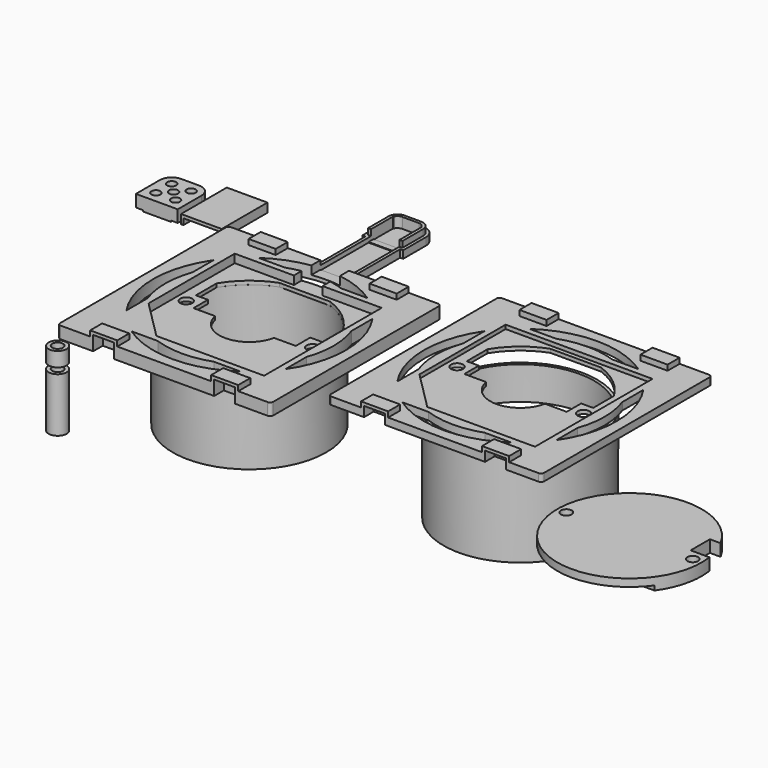
from build123d import *

# Parameters (mm, degrees)
BOX016_W          = 50
BOX016_H          = 15
BOX016_DEPTH      = 10
CYLINDER013_R     = 1.8
CYLINDER013_DEPTH = 50
CYLINDER012_R     = 1.8
CYLINDER012_DEPTH = 50
CYLINDER011_R     = 24.5
CYLINDER011_DEPTH = 50
CYLINDER010_R     = 25.5
CYLINDER010_DEPTH = 28
CYLINDER014_R     = 1.8
CYLINDER014_DEPTH = 30
CYLINDER015_R     = 3
CYLINDER015_DEPTH = 18
CYLINDER016_R     = 1.8
CYLINDER016_DEPTH = 20
CYLINDER017_R     = 3
CYLINDER017_DEPTH = 4.8
BOX022_W          = 9.5
BOX022_H          = 66
BOX022_DEPTH      = 10
BOX018_W          = 9.5
BOX018_H          = 30
BOX018_DEPTH      = 10
BOX017_W          = 11.5
BOX017_H          = 22
BOX017_DEPTH      = 2.5
BOX038_W          = 9.5
BOX038_H          = 9.5
BOX038_DEPTH      = 30
FILLET009_R       = 2
BOX039_W          = 11.5
BOX039_H          = 11.5
BOX039_DEPTH      = 4.5
FILLET008_R       = 3
BOX040_W          = 13.5
BOX040_H          = 13.5
BOX040_DEPTH      = 2.5
FILLET007_R       = 4
BOX034_W          = 52.8
BOX034_H          = 52.8
BOX034_DEPTH      = 30
CYLINDER030_R     = 28
CYLINDER030_DEPTH = 30
CYLINDER029_R     = 32
CYLINDER029_DEPTH = 10
CYLINDER018_R     = 24.5
CYLINDER018_DEPTH = 50
BOX014_W          = 42
BOX014_H          = 19
BOX014_DEPTH      = 10
BOX015_W          = 34
BOX015_H          = 10
BOX015_DEPTH      = 10
BOX008_W          = 7
BOX008_H          = 4
BOX008_DEPTH      = 10
BOX010_W          = 7
BOX010_H          = 4
BOX010_DEPTH      = 10
BOX009_W          = 7
BOX009_H          = 4
BOX009_DEPTH      = 10
BOX007_W          = 7
BOX007_H          = 4
BOX007_DEPTH      = 10
BOX004_W          = 9
BOX004_H          = 5
BOX004_DEPTH      = 1.8
BOX005_W          = 9
BOX005_H          = 5
BOX005_DEPTH      = 1.8
BOX006_W          = 9
BOX006_H          = 5
BOX006_DEPTH      = 1.8
BOX001_W          = 9
BOX001_H          = 5
BOX001_DEPTH      = 1.8
CYLINDER009_R     = 2
CYLINDER009_DEPTH = 10
CYLINDER007_R     = 2
CYLINDER007_DEPTH = 10
CYLINDER004_R     = 2
CYLINDER004_DEPTH = 10
CYLINDER002_R     = 2
CYLINDER002_DEPTH = 10
CYLINDER003_R     = 2
CYLINDER003_DEPTH = 10
CYLINDER001_R     = 2
CYLINDER001_DEPTH = 10
CYLINDER_R        = 10
CYLINDER_DEPTH    = 40
BOX013_W          = 48.8
BOX013_H          = 48.8
BOX013_DEPTH      = 10
CHAMFER_SIZE      = 13
BOX_W             = 70.8
BOX_H             = 70.8
BOX_DEPTH         = 4
FILLET_R          = 1
BOX043_W          = 9.3
BOX043_H          = 1
BOX043_DEPTH      = 2
CYLINDER033_R     = 1.5
CYLINDER033_DEPTH = 10
CYLINDER031_R     = 1.5
CYLINDER031_DEPTH = 10
CYLINDER035_R     = 1.5
CYLINDER035_DEPTH = 10
CYLINDER034_R     = 1.5
CYLINDER034_DEPTH = 10
CYLINDER032_R     = 1.5
CYLINDER032_DEPTH = 10
BOX042_W          = 11.9
BOX042_H          = 11.9
BOX042_DEPTH      = 2
FILLET011_R       = 3
BOX041_W          = 13.9
BOX041_H          = 13.9
BOX041_DEPTH      = 4
FILLET010_R       = 4
BOX045_W          = 11.9
BOX045_H          = 20
BOX045_DEPTH      = 2
BOX044_W          = 13.5
BOX044_H          = 19
BOX044_DEPTH      = 3
BOX047_W          = 52.8
BOX047_H          = 52.8
BOX047_DEPTH      = 30
CYLINDER037_R     = 28
CYLINDER037_DEPTH = 30
CYLINDER036_R     = 32
CYLINDER036_DEPTH = 10
CYLINDER038_R     = 24.5
CYLINDER038_DEPTH = 50
BOX031_W          = 42
BOX031_H          = 19
BOX031_DEPTH      = 10
BOX032_W          = 34
BOX032_H          = 10
BOX032_DEPTH      = 10
BOX027_W          = 7
BOX027_H          = 4
BOX027_DEPTH      = 10
BOX023_W          = 7
BOX023_H          = 4
BOX023_DEPTH      = 10
BOX028_W          = 7
BOX028_H          = 4
BOX028_DEPTH      = 10
BOX026_W          = 7
BOX026_H          = 4
BOX026_DEPTH      = 10
BOX025_W          = 9
BOX025_H          = 5
BOX025_DEPTH      = 1.8
BOX024_W          = 9
BOX024_H          = 5
BOX024_DEPTH      = 1.8
BOX046_W          = 9
BOX046_H          = 5
BOX046_DEPTH      = 1.8
BOX021_W          = 9
BOX021_H          = 5
BOX021_DEPTH      = 1.8
CYLINDER024_R     = 2
CYLINDER024_DEPTH = 10
CYLINDER027_R     = 2
CYLINDER027_DEPTH = 10
CYLINDER028_R     = 2
CYLINDER028_DEPTH = 10
CYLINDER023_R     = 2
CYLINDER023_DEPTH = 10
CYLINDER026_R     = 2
CYLINDER026_DEPTH = 10
CYLINDER025_R     = 2
CYLINDER025_DEPTH = 10
CYLINDER022_R     = 10
CYLINDER022_DEPTH = 40
BOX030_W          = 48.8
BOX030_H          = 48.8
BOX030_DEPTH      = 10
CHAMFER001_SIZE   = 13
BOX029_W          = 70.8
BOX029_H          = 70.8
BOX029_DEPTH      = 2.5
FILLET001_R       = 1
BOX048_W          = 50
BOX048_H          = 15
BOX048_DEPTH      = 30
CYLINDER039_R     = 1.8
CYLINDER039_DEPTH = 50
CYLINDER041_R     = 1.8
CYLINDER041_DEPTH = 50
CYLINDER040_R     = 24.5
CYLINDER040_DEPTH = 50
CYLINDER042_R     = 25.5
CYLINDER042_DEPTH = 32
BOX020_W          = 7.5
BOX020_H          = 10
BOX020_DEPTH      = 7
BOX019_W          = 42
BOX019_H          = 1
BOX019_DEPTH      = 18.5
BOX050_W          = 24
BOX050_H          = 8
BOX050_DEPTH      = 10
CYLINDER021_R     = 1.8
CYLINDER021_DEPTH = 20
BOX049_W          = 60
BOX049_H          = 10
BOX049_DEPTH      = 1.5
CYLINDER020_R     = 1.8
CYLINDER020_DEPTH = 20
CYLINDER019_R     = 24
CYLINDER019_DEPTH = 4


with BuildPart() as box016:
    # Box016 → Box016 (new body)
    with BuildSketch(Plane(origin=(-25, 14.5, -7), x_dir=(1, 0, 0), z_dir=(0, 0, 1))):
        with Locations((25, 7.5)):
            Rectangle(BOX016_W, BOX016_H)
    extrude(amount=BOX016_DEPTH)


with BuildPart() as cylinder013:
    # Cylinder013 → Cylinder013 (new body)
    with BuildSketch(Plane(origin=(21, 0, -5), x_dir=(1, 0, 0), z_dir=(0, 0, 1))):
        Circle(CYLINDER013_R)
    extrude(amount=CYLINDER013_DEPTH)


with BuildPart() as fusion008:
    # Cylinder012 → Cylinder012 (new body)
    with BuildSketch(Plane(origin=(-21, 0, -5), x_dir=(1, 0, 0), z_dir=(0, 0, 1))):
        Circle(CYLINDER012_R)
    extrude(amount=CYLINDER012_DEPTH)

    # Fusion008: union Cylinder013
    add(cylinder013.part)


with BuildPart() as bodyhole:
    # Cylinder011 → Cylinder011 (new body)
    with BuildSketch(Plane.XY.offset(1.5)):
        Circle(CYLINDER011_R)
    extrude(amount=CYLINDER011_DEPTH)


with BuildPart() as body:
    # Cylinder010 → Cylinder010 (new body)
    with BuildSketch(Plane.XY):
        Circle(CYLINDER010_R)
    extrude(amount=CYLINDER010_DEPTH)

    # Cut028: cut BodyHole
    add(bodyhole.part, mode=Mode.SUBTRACT)

    # Cut029: cut Fusion008
    add(fusion008.part, mode=Mode.SUBTRACT)

    # Cut030: cut Box016
    add(box016.part, mode=Mode.SUBTRACT)


with BuildPart() as body_1:
    # Cut030 placement: moved
    add(body.part.moved(Location((35.4, 35.4, -28))))


with BuildPart() as cylinder014:
    # Cylinder014 → Cylinder014 (new body)
    with BuildSketch(Plane.XY.offset(-3)):
        Circle(CYLINDER014_R)
    extrude(amount=CYLINDER014_DEPTH)


with BuildPart() as pwrstand:
    # Cylinder015 → Cylinder015 (new body)
    with BuildSketch(Plane.XY):
        Circle(CYLINDER015_R)
    extrude(amount=CYLINDER015_DEPTH)

    # Cut031: cut Cylinder014
    add(cylinder014.part, mode=Mode.SUBTRACT)


with BuildPart() as pwrstand_1:
    # Cut031 placement: moved
    add(pwrstand.part.moved(Location((0, 0, -27))))


with BuildPart() as cylinder016:
    # Cylinder016 → Cylinder016 (new body)
    with BuildSketch(Plane.XY.offset(-3)):
        Circle(CYLINDER016_R)
    extrude(amount=CYLINDER016_DEPTH)


with BuildPart() as obj1:
    # Cylinder017 → Cylinder017 (new body)
    with BuildSketch(Plane.XY):
        Circle(CYLINDER017_R)
    extrude(amount=CYLINDER017_DEPTH)

    # Cut032: cut Cylinder016
    add(cylinder016.part, mode=Mode.SUBTRACT)


with BuildPart() as obj1_1:
    # Cut032 placement: moved
    add(obj1.part.moved(Location((0, 0, -7))))


with BuildPart() as box022:
    # Box022 → Box022 (new body)
    with BuildSketch(Plane(origin=(30.65, 35, 1.2), x_dir=(1, 0, 0), z_dir=(0, 0, 1))):
        with Locations((4.75, 33)):
            Rectangle(BOX022_W, BOX022_H)
    extrude(amount=BOX022_DEPTH)


with BuildPart() as box018:
    # Box018 → Box018 (new body)
    with BuildSketch(Plane(origin=(1, 0, 1), x_dir=(1, 0, 0), z_dir=(0, 0, 1))):
        with Locations((4.75, 15)):
            Rectangle(BOX018_W, BOX018_H)
    extrude(amount=BOX018_DEPTH)


with BuildPart() as cut037:
    # Box017 → Box017 (new body)
    with BuildSketch(Plane.XY):
        with Locations((5.75, 11)):
            Rectangle(BOX017_W, BOX017_H)
    extrude(amount=BOX017_DEPTH)

    # Cut037: cut Box018
    add(box018.part, mode=Mode.SUBTRACT)


with BuildPart() as cut037_1:
    # Cut037 placement: moved
    add(cut037.part.moved(Location((29.65, 70.8, 0))))


with BuildPart() as fillet009:
    # Box038 → Box038 (new body)
    with BuildSketch(Plane(origin=(2, 2, 1), x_dir=(1, 0, 0), z_dir=(0, 0, 1))):
        with Locations((4.75, 4.75)):
            Rectangle(BOX038_W, BOX038_H)
    extrude(amount=BOX038_DEPTH)

    # Fillet009
    fillet009_edges = [fillet009.edges().sort_by_distance(p)[0] for p in [
        (2, 11.5, 16),
        (11.5, 11.5, 16),
    ]]
    fillet(fillet009_edges, radius=FILLET009_R)


with BuildPart() as fillet008:
    # Box039 → Box039 (new body)
    with BuildSketch(Plane(origin=(1, 1, 0), x_dir=(1, 0, 0), z_dir=(0, 0, 1))):
        with Locations((5.75, 5.75)):
            Rectangle(BOX039_W, BOX039_H)
    extrude(amount=BOX039_DEPTH)

    # Fillet008
    fillet008_edges = [fillet008.edges().sort_by_distance(p)[0] for p in [
        (1, 12.5, 2.25),
        (12.5, 12.5, 2.25),
    ]]
    fillet(fillet008_edges, radius=FILLET008_R)


with BuildPart() as obj2:
    # Box040 → Box040 (new body)
    with BuildSketch(Plane.XY):
        with Locations((6.75, 6.75)):
            Rectangle(BOX040_W, BOX040_H)
    extrude(amount=BOX040_DEPTH)

    # Fillet007
    fillet007_edges = [obj2.edges().sort_by_distance(p)[0] for p in [
        (0, 13.5, 1.25),
        (13.5, 13.5, 1.25),
    ]]
    fillet(fillet007_edges, radius=FILLET007_R)

    # Fusion019: union Fillet008
    add(fillet008.part)

    # Cut049: cut Fillet009
    add(fillet009.part, mode=Mode.SUBTRACT)


with BuildPart() as obj2_1:
    # Cut049 placement: moved
    add(obj2.part.moved(Location((28.65, 90.8, 0))))


with BuildPart() as box034:
    # Box034 → Box034 (new body)
    with BuildSketch(Plane(origin=(9, 9, -5), x_dir=(1, 0, 0), z_dir=(0, 0, 1))):
        with Locations((26.4, 26.4)):
            Rectangle(BOX034_W, BOX034_H)
    extrude(amount=BOX034_DEPTH)


with BuildPart() as cylinder030:
    # Cylinder030 → Cylinder030 (new body)
    with BuildSketch(Plane(origin=(35.4, 35.4, -5), x_dir=(1, 0, 0), z_dir=(0, 0, 1))):
        Circle(CYLINDER030_R)
    extrude(amount=CYLINDER030_DEPTH)


with BuildPart() as cut046:
    # Cylinder029 → Cylinder029 (new body)
    with BuildSketch(Plane(origin=(35.4, 35.4, 0), x_dir=(1, 0, 0), z_dir=(0, 0, 1))):
        Circle(CYLINDER029_R)
    extrude(amount=CYLINDER029_DEPTH)

    # Cut045: cut Cylinder030
    add(cylinder030.part, mode=Mode.SUBTRACT)

    # Cut046: cut Box034
    add(box034.part, mode=Mode.SUBTRACT)


with BuildPart() as bodyhole001:
    # Cylinder018 → Cylinder018 (new body)
    with BuildSketch(Plane(origin=(35.4, 35.4, -10.5), x_dir=(1, 0, 0), z_dir=(0, 0, 1))):
        Circle(CYLINDER018_R)
    extrude(amount=CYLINDER018_DEPTH)


with BuildPart() as connector_hole:
    # Box014 → Box014 (new body)
    with BuildSketch(Plane(origin=(14.4, 39.4, -3), x_dir=(1, 0, 0), z_dir=(0, 0, 1))):
        with Locations((21, 9.5)):
            Rectangle(BOX014_W, BOX014_H)
    extrude(amount=BOX014_DEPTH)


with BuildPart() as common:
    # Box015 → Box015 (new body)
    with BuildSketch(Plane(origin=(18.4, 33.4, -2), x_dir=(1, 0, 0), z_dir=(0, 0, 1))):
        with Locations((17, 5)):
            Rectangle(BOX015_W, BOX015_H)
    extrude(amount=BOX015_DEPTH)

    # Fusion010: union Connector hole
    add(connector_hole.part)

    # Common: intersect BodyHole001
    add(bodyhole001.part, mode=Mode.INTERSECT)


with BuildPart() as latch_hole_bottom_right:
    # Box008 → Box008 (new body)
    with BuildSketch(Plane(origin=(52, 0, -5.2), x_dir=(1, 0, 0), z_dir=(0, 0, 1))):
        with Locations((3.5, 2)):
            Rectangle(BOX008_W, BOX008_H)
    extrude(amount=BOX008_DEPTH)


with BuildPart() as latch_hole_top_right:
    # Box010 → Box010 (new body)
    with BuildSketch(Plane(origin=(52, 66.8, -5.2), x_dir=(1, 0, 0), z_dir=(0, 0, 1))):
        with Locations((3.5, 2)):
            Rectangle(BOX010_W, BOX010_H)
    extrude(amount=BOX010_DEPTH)


with BuildPart() as latch_hole_top_left:
    # Box009 → Box009 (new body)
    with BuildSketch(Plane(origin=(11.8, 66.8, -5.2), x_dir=(1, 0, 0), z_dir=(0, 0, 1))):
        with Locations((3.5, 2)):
            Rectangle(BOX009_W, BOX009_H)
    extrude(amount=BOX009_DEPTH)


with BuildPart() as fusion005:
    # Box007 → Box007 (new body)
    with BuildSketch(Plane(origin=(11.8, 0, -5.2), x_dir=(1, 0, 0), z_dir=(0, 0, 1))):
        with Locations((3.5, 2)):
            Rectangle(BOX007_W, BOX007_H)
    extrude(amount=BOX007_DEPTH)

    # Fusion004: union latch hole bottom right, latch hole top right, latch hole top left
    add(latch_hole_bottom_right.part)
    add(latch_hole_top_right.part)
    add(latch_hole_top_left.part)


with BuildPart() as latch_bottom_right:
    # Box004 → Box004 (new body)
    with BuildSketch(Plane(origin=(51, 0, 4), x_dir=(1, 0, 0), z_dir=(0, 0, 1))):
        with Locations((4.5, 2.5)):
            Rectangle(BOX004_W, BOX004_H)
    extrude(amount=BOX004_DEPTH)


with BuildPart() as latch_top_left:
    # Box005 → Box005 (new body)
    with BuildSketch(Plane(origin=(10.8, 65.8, 4), x_dir=(1, 0, 0), z_dir=(0, 0, 1))):
        with Locations((4.5, 2.5)):
            Rectangle(BOX005_W, BOX005_H)
    extrude(amount=BOX005_DEPTH)


with BuildPart() as latch_top_right:
    # Box006 → Box006 (new body)
    with BuildSketch(Plane(origin=(51, 65.8, 4), x_dir=(1, 0, 0), z_dir=(0, 0, 1))):
        with Locations((4.5, 2.5)):
            Rectangle(BOX006_W, BOX006_H)
    extrude(amount=BOX006_DEPTH)


with BuildPart() as fusion:
    # Box001 → Box001 (new body)
    with BuildSketch(Plane(origin=(10.8, 0, 4), x_dir=(1, 0, 0), z_dir=(0, 0, 1))):
        with Locations((4.5, 2.5)):
            Rectangle(BOX001_W, BOX001_H)
    extrude(amount=BOX001_DEPTH)

    # Fusion: union latch bottom right, latch top left, latch top right
    add(latch_bottom_right.part)
    add(latch_top_left.part)
    add(latch_top_right.part)


with BuildPart() as board_hole_right:
    # Cylinder009 → Cylinder009 (new body)
    with BuildSketch(Plane(origin=(56.4, 35.4, -2), x_dir=(1, 0, 0), z_dir=(0, 0, 1))):
        Circle(CYLINDER009_R)
    extrude(amount=CYLINDER009_DEPTH)


with BuildPart() as fusion009:
    # Cylinder007 → Cylinder007 (new body)
    with BuildSketch(Plane(origin=(14.4, 35.4, -2), x_dir=(1, 0, 0), z_dir=(0, 0, 1))):
        Circle(CYLINDER007_R)
    extrude(amount=CYLINDER007_DEPTH)

    # Fusion009: union Board hole right
    add(board_hole_right.part)


with BuildPart() as top_screw_hole:
    # Cylinder004 → Cylinder004 (new body)
    with BuildSketch(Plane(origin=(35.4, 65.4, -4), x_dir=(1, 0, 0), z_dir=(0, 0, 1))):
        Circle(CYLINDER004_R)
    extrude(amount=CYLINDER004_DEPTH)


with BuildPart() as bottom_screw_hole:
    # Cylinder002 → Cylinder002 (new body)
    with BuildSketch(Plane(origin=(35.4, 5.4, -4), x_dir=(1, 0, 0), z_dir=(0, 0, 1))):
        Circle(CYLINDER002_R)
    extrude(amount=CYLINDER002_DEPTH)


with BuildPart() as right_screw_hole:
    # Cylinder003 → Cylinder003 (new body)
    with BuildSketch(Plane(origin=(65.4, 35.4, -4), x_dir=(1, 0, 0), z_dir=(0, 0, 1))):
        Circle(CYLINDER003_R)
    extrude(amount=CYLINDER003_DEPTH)


with BuildPart() as fusion006:
    # Cylinder001 → Cylinder001 (new body)
    with BuildSketch(Plane(origin=(5.4, 35.4, -4), x_dir=(1, 0, 0), z_dir=(0, 0, 1))):
        Circle(CYLINDER001_R)
    extrude(amount=CYLINDER001_DEPTH)

    # Fusion006: union top screw hole, Bottom screw hole, right screw hole
    add(top_screw_hole.part)
    add(bottom_screw_hole.part)
    add(right_screw_hole.part)


with BuildPart() as central_hole001:
    # Cylinder → Cylinder (new body)
    with BuildSketch(Plane(origin=(35.4, 35.4, -10), x_dir=(1, 0, 0), z_dir=(0, 0, 1))):
        Circle(CYLINDER_R)
    extrude(amount=CYLINDER_DEPTH)


with BuildPart() as chamfer_body:
    # Box013 → Box013 (new body)
    with BuildSketch(Plane(origin=(11, 11, 0), x_dir=(1, 0, 0), z_dir=(0, 0, 1))):
        with Locations((24.4, 24.4)):
            Rectangle(BOX013_W, BOX013_H)
    extrude(amount=BOX013_DEPTH)

    # Chamfer
    chamfer_edges = [chamfer_body.edges().sort_by_distance(p)[0] for p in [
        (11, 11, 5),
    ]]
    chamfer(chamfer_edges, length=CHAMFER_SIZE)


with BuildPart() as chamfer_body_1:
    # Chamfer placement: moved
    add(chamfer_body.part.moved(Location((0, 0, 1.2))))


with BuildPart() as obj3:
    # Box → Box (new body)
    with BuildSketch(Plane.XY):
        with Locations((35.4, 35.4)):
            Rectangle(BOX_W, BOX_H)
    extrude(amount=BOX_DEPTH)

    # Fillet
    fillet_edges = [obj3.edges().sort_by_distance(p)[0] for p in [
        (0, 0, 2),
        (0, 70.8, 2),
        (70.8, 0, 2),
        (70.8, 70.8, 2),
    ]]
    fillet(fillet_edges, radius=FILLET_R)

    # Cut: cut Chamfer body
    add(chamfer_body_1.part, mode=Mode.SUBTRACT)

    # Cut021: cut Central hole001
    add(central_hole001.part, mode=Mode.SUBTRACT)

    # Cut033: cut Fusion006
    add(fusion006.part, mode=Mode.SUBTRACT)

    # Cut034: cut Fusion009
    add(fusion009.part, mode=Mode.SUBTRACT)

    # Fusion011: union Fusion
    add(fusion.part)

    # Cut035: cut Fusion005
    add(fusion005.part, mode=Mode.SUBTRACT)

    # Cut036: cut Common
    add(common.part, mode=Mode.SUBTRACT)

    # Cut047: cut Cut046
    add(cut046.part, mode=Mode.SUBTRACT)

    # Fusion022: union Cut037, obj2
    add(cut037_1.part)
    add(obj2_1.part)

    # Cut053: cut Box022
    add(box022.part, mode=Mode.SUBTRACT)


with BuildPart() as box043:
    # Box043 → Box043 (new body)
    with BuildSketch(Plane(origin=(2.3, 0, -0.4), x_dir=(1, 0, 0), z_dir=(0, 0, 1))):
        with Locations((4.65, 0.5)):
            Rectangle(BOX043_W, BOX043_H)
    extrude(amount=BOX043_DEPTH)


with BuildPart() as cylinder033:
    # Cylinder033 → Cylinder033 (new body)
    with BuildSketch(Plane(origin=(3.7, 10.2, 0), x_dir=(1, 0, 0), z_dir=(0, 0, 1))):
        Circle(CYLINDER033_R)
    extrude(amount=CYLINDER033_DEPTH)


with BuildPart() as cylinder031:
    # Cylinder031 → Cylinder031 (new body)
    with BuildSketch(Plane(origin=(6.95, 6.95, 0), x_dir=(1, 0, 0), z_dir=(0, 0, 1))):
        Circle(CYLINDER031_R)
    extrude(amount=CYLINDER031_DEPTH)


with BuildPart() as cylinder035:
    # Cylinder035 → Cylinder035 (new body)
    with BuildSketch(Plane(origin=(10.2, 10.2, 0), x_dir=(1, 0, 0), z_dir=(0, 0, 1))):
        Circle(CYLINDER035_R)
    extrude(amount=CYLINDER035_DEPTH)


with BuildPart() as cylinder034:
    # Cylinder034 → Cylinder034 (new body)
    with BuildSketch(Plane(origin=(10.2, 3.7, 0), x_dir=(1, 0, 0), z_dir=(0, 0, 1))):
        Circle(CYLINDER034_R)
    extrude(amount=CYLINDER034_DEPTH)


with BuildPart() as fusion021:
    # Cylinder032 → Cylinder032 (new body)
    with BuildSketch(Plane(origin=(3.7, 3.7, 0), x_dir=(1, 0, 0), z_dir=(0, 0, 1))):
        Circle(CYLINDER032_R)
    extrude(amount=CYLINDER032_DEPTH)

    # Fusion021: union Cylinder033, Cylinder031, Cylinder035, Cylinder034
    add(cylinder033.part)
    add(cylinder031.part)
    add(cylinder035.part)
    add(cylinder034.part)


with BuildPart() as fillet011:
    # Box042 → Box042 (new body)
    with BuildSketch(Plane(origin=(1, 1, 0), x_dir=(1, 0, 0), z_dir=(0, 0, 1))):
        with Locations((5.95, 5.95)):
            Rectangle(BOX042_W, BOX042_H)
    extrude(amount=BOX042_DEPTH)

    # Fillet011
    fillet011_edges = [fillet011.edges().sort_by_distance(p)[0] for p in [
        (1, 12.9, 1),
        (12.9, 12.9, 1),
    ]]
    fillet(fillet011_edges, radius=FILLET011_R)


with BuildPart() as sensorcap:
    # Box041 → Box041 (new body)
    with BuildSketch(Plane.XY):
        with Locations((6.95, 6.95)):
            Rectangle(BOX041_W, BOX041_H)
    extrude(amount=BOX041_DEPTH)

    # Fillet010
    fillet010_edges = [sensorcap.edges().sort_by_distance(p)[0] for p in [
        (0, 13.9, 2),
        (13.9, 13.9, 2),
    ]]
    fillet(fillet010_edges, radius=FILLET010_R)

    # Cut051: cut Fillet011
    add(fillet011.part, mode=Mode.SUBTRACT)

    # Cut052: cut Fusion021
    add(fusion021.part, mode=Mode.SUBTRACT)

    # Fusion023: union Box043
    add(box043.part)


with BuildPart() as sensorcap_1:
    # Fusion023 placement: moved
    add(sensorcap.part.moved(Location((-30, 70, 0))))


with BuildPart() as box045:
    # Box045 → Box045 (new body)
    with BuildSketch(Plane(origin=(0.8, 0, 0), x_dir=(1, 0, 0), z_dir=(0, 0, 1))):
        with Locations((5.95, 10)):
            Rectangle(BOX045_W, BOX045_H)
    extrude(amount=BOX045_DEPTH)


with BuildPart() as cablecup:
    # Box044 → Box044 (new body)
    with BuildSketch(Plane.XY):
        with Locations((6.75, 9.5)):
            Rectangle(BOX044_W, BOX044_H)
    extrude(amount=BOX044_DEPTH)

    # Cut054: cut Box045
    add(box045.part, mode=Mode.SUBTRACT)


with BuildPart() as cablecup_1:
    # Cut054 placement: moved
    add(cablecup.part.moved(Location((-15, 70, 0))))


with BuildPart() as box047:
    # Box047 → Box047 (new body)
    with BuildSketch(Plane(origin=(9, 9, -5), x_dir=(1, 0, 0), z_dir=(0, 0, 1))):
        with Locations((26.4, 26.4)):
            Rectangle(BOX047_W, BOX047_H)
    extrude(amount=BOX047_DEPTH)


with BuildPart() as cylinder037:
    # Cylinder037 → Cylinder037 (new body)
    with BuildSketch(Plane(origin=(35.4, 35.4, -5), x_dir=(1, 0, 0), z_dir=(0, 0, 1))):
        Circle(CYLINDER037_R)
    extrude(amount=CYLINDER037_DEPTH)


with BuildPart() as cut057:
    # Cylinder036 → Cylinder036 (new body)
    with BuildSketch(Plane(origin=(35.4, 35.4, 0), x_dir=(1, 0, 0), z_dir=(0, 0, 1))):
        Circle(CYLINDER036_R)
    extrude(amount=CYLINDER036_DEPTH)

    # Cut056: cut Cylinder037
    add(cylinder037.part, mode=Mode.SUBTRACT)

    # Cut057: cut Box047
    add(box047.part, mode=Mode.SUBTRACT)


with BuildPart() as bodyhole002:
    # Cylinder038 → Cylinder038 (new body)
    with BuildSketch(Plane(origin=(35.4, 35.4, -10.5), x_dir=(1, 0, 0), z_dir=(0, 0, 1))):
        Circle(CYLINDER038_R)
    extrude(amount=CYLINDER038_DEPTH)


with BuildPart() as connector_hole001:
    # Box031 → Box031 (new body)
    with BuildSketch(Plane(origin=(14.4, 39.4, -3), x_dir=(1, 0, 0), z_dir=(0, 0, 1))):
        with Locations((21, 9.5)):
            Rectangle(BOX031_W, BOX031_H)
    extrude(amount=BOX031_DEPTH)


with BuildPart() as common001:
    # Box032 → Box032 (new body)
    with BuildSketch(Plane(origin=(18.4, 33.4, -2), x_dir=(1, 0, 0), z_dir=(0, 0, 1))):
        with Locations((17, 5)):
            Rectangle(BOX032_W, BOX032_H)
    extrude(amount=BOX032_DEPTH)

    # Fusion020: union Connector hole001
    add(connector_hole001.part)

    # Common001: intersect BodyHole002
    add(bodyhole002.part, mode=Mode.INTERSECT)


with BuildPart() as latch_hole_bottom_right001:
    # Box027 → Box027 (new body)
    with BuildSketch(Plane(origin=(52, 0, -6.7), x_dir=(1, 0, 0), z_dir=(0, 0, 1))):
        with Locations((3.5, 2)):
            Rectangle(BOX027_W, BOX027_H)
    extrude(amount=BOX027_DEPTH)


with BuildPart() as latch_hole_top_right001:
    # Box023 → Box023 (new body)
    with BuildSketch(Plane(origin=(52, 66.8, -6.7), x_dir=(1, 0, 0), z_dir=(0, 0, 1))):
        with Locations((3.5, 2)):
            Rectangle(BOX023_W, BOX023_H)
    extrude(amount=BOX023_DEPTH)


with BuildPart() as latch_hole_top_left001:
    # Box028 → Box028 (new body)
    with BuildSketch(Plane(origin=(11.8, 66.8, -6.7), x_dir=(1, 0, 0), z_dir=(0, 0, 1))):
        with Locations((3.5, 2)):
            Rectangle(BOX028_W, BOX028_H)
    extrude(amount=BOX028_DEPTH)


with BuildPart() as fusion015:
    # Box026 → Box026 (new body)
    with BuildSketch(Plane(origin=(11.8, 0, -6.7), x_dir=(1, 0, 0), z_dir=(0, 0, 1))):
        with Locations((3.5, 2)):
            Rectangle(BOX026_W, BOX026_H)
    extrude(amount=BOX026_DEPTH)

    # Fusion014: union latch hole bottom right001, latch hole top right001, latch hole top left001
    add(latch_hole_bottom_right001.part)
    add(latch_hole_top_right001.part)
    add(latch_hole_top_left001.part)


with BuildPart() as latch_bottom_right001:
    # Box025 → Box025 (new body)
    with BuildSketch(Plane(origin=(51, 0, 2.5), x_dir=(1, 0, 0), z_dir=(0, 0, 1))):
        with Locations((4.5, 2.5)):
            Rectangle(BOX025_W, BOX025_H)
    extrude(amount=BOX025_DEPTH)


with BuildPart() as latch_top_left001:
    # Box024 → Box024 (new body)
    with BuildSketch(Plane(origin=(10.8, 65.8, 2.5), x_dir=(1, 0, 0), z_dir=(0, 0, 1))):
        with Locations((4.5, 2.5)):
            Rectangle(BOX024_W, BOX024_H)
    extrude(amount=BOX024_DEPTH)


with BuildPart() as latch_top_right001:
    # Box046 → Box046 (new body)
    with BuildSketch(Plane(origin=(51, 65.8, 2.5), x_dir=(1, 0, 0), z_dir=(0, 0, 1))):
        with Locations((4.5, 2.5)):
            Rectangle(BOX046_W, BOX046_H)
    extrude(amount=BOX046_DEPTH)


with BuildPart() as fusion016:
    # Box021 → Box021 (new body)
    with BuildSketch(Plane(origin=(10.8, 0, 2.5), x_dir=(1, 0, 0), z_dir=(0, 0, 1))):
        with Locations((4.5, 2.5)):
            Rectangle(BOX021_W, BOX021_H)
    extrude(amount=BOX021_DEPTH)

    # Fusion016: union latch bottom right001, latch top left001, latch top right001
    add(latch_bottom_right001.part)
    add(latch_top_left001.part)
    add(latch_top_right001.part)


with BuildPart() as board_hole_right001:
    # Cylinder024 → Cylinder024 (new body)
    with BuildSketch(Plane(origin=(56.4, 35.4, -2), x_dir=(1, 0, 0), z_dir=(0, 0, 1))):
        Circle(CYLINDER024_R)
    extrude(amount=CYLINDER024_DEPTH)


with BuildPart() as fusion017:
    # Cylinder027 → Cylinder027 (new body)
    with BuildSketch(Plane(origin=(14.4, 35.4, -2), x_dir=(1, 0, 0), z_dir=(0, 0, 1))):
        Circle(CYLINDER027_R)
    extrude(amount=CYLINDER027_DEPTH)

    # Fusion017: union Board hole right001
    add(board_hole_right001.part)


with BuildPart() as top_screw_hole001:
    # Cylinder028 → Cylinder028 (new body)
    with BuildSketch(Plane(origin=(35.4, 65.4, -4), x_dir=(1, 0, 0), z_dir=(0, 0, 1))):
        Circle(CYLINDER028_R)
    extrude(amount=CYLINDER028_DEPTH)


with BuildPart() as bottom_screw_hole001:
    # Cylinder023 → Cylinder023 (new body)
    with BuildSketch(Plane(origin=(35.4, 5.4, -4), x_dir=(1, 0, 0), z_dir=(0, 0, 1))):
        Circle(CYLINDER023_R)
    extrude(amount=CYLINDER023_DEPTH)


with BuildPart() as right_screw_hole001:
    # Cylinder026 → Cylinder026 (new body)
    with BuildSketch(Plane(origin=(65.4, 35.4, -4), x_dir=(1, 0, 0), z_dir=(0, 0, 1))):
        Circle(CYLINDER026_R)
    extrude(amount=CYLINDER026_DEPTH)


with BuildPart() as fusion018:
    # Cylinder025 → Cylinder025 (new body)
    with BuildSketch(Plane(origin=(5.4, 35.4, -4), x_dir=(1, 0, 0), z_dir=(0, 0, 1))):
        Circle(CYLINDER025_R)
    extrude(amount=CYLINDER025_DEPTH)

    # Fusion018: union top screw hole001, Bottom screw hole001, right screw hole001
    add(top_screw_hole001.part)
    add(bottom_screw_hole001.part)
    add(right_screw_hole001.part)


with BuildPart() as central_hole002:
    # Cylinder022 → Cylinder022 (new body)
    with BuildSketch(Plane(origin=(35.4, 35.4, -10), x_dir=(1, 0, 0), z_dir=(0, 0, 1))):
        Circle(CYLINDER022_R)
    extrude(amount=CYLINDER022_DEPTH)


with BuildPart() as chamfer001:
    # Box030 → Box030 (new body)
    with BuildSketch(Plane(origin=(11, 11, 0), x_dir=(1, 0, 0), z_dir=(0, 0, 1))):
        with Locations((24.4, 24.4)):
            Rectangle(BOX030_W, BOX030_H)
    extrude(amount=BOX030_DEPTH)

    # Chamfer001
    chamfer001_edges = [chamfer001.edges().sort_by_distance(p)[0] for p in [
        (11, 11, 5),
    ]]
    chamfer(chamfer001_edges, length=CHAMFER001_SIZE)


with BuildPart() as chamfer001_1:
    # Chamfer001 placement: moved
    add(chamfer001.part.moved(Location((0, 0, 1.2))))


with BuildPart() as bodycup:
    # Box029 → Box029 (new body)
    with BuildSketch(Plane.XY):
        with Locations((35.4, 35.4)):
            Rectangle(BOX029_W, BOX029_H)
    extrude(amount=BOX029_DEPTH)

    # Fillet001
    fillet001_edges = [bodycup.edges().sort_by_distance(p)[0] for p in [
        (0, 0, 1.25),
        (0, 70.8, 1.25),
        (70.8, 0, 1.25),
        (70.8, 70.8, 1.25),
    ]]
    fillet(fillet001_edges, radius=FILLET001_R)

    # Cut040: cut Chamfer001
    add(chamfer001_1.part, mode=Mode.SUBTRACT)

    # Cut041: cut Central hole002
    add(central_hole002.part, mode=Mode.SUBTRACT)

    # Cut042: cut Fusion018
    add(fusion018.part, mode=Mode.SUBTRACT)

    # Cut048: cut Fusion017
    add(fusion017.part, mode=Mode.SUBTRACT)

    # Fusion024: union Fusion016
    add(fusion016.part)

    # Cut043: cut Fusion015
    add(fusion015.part, mode=Mode.SUBTRACT)

    # Cut044: cut Common001
    add(common001.part, mode=Mode.SUBTRACT)

    # Cut055: cut Cut057
    add(cut057.part, mode=Mode.SUBTRACT)


with BuildPart() as bodycup_1:
    # Cut055 placement: moved
    add(bodycup.part.moved(Location((90, 0, 10))))


with BuildPart() as box048:
    # Box048 → Box048 (new body)
    with BuildSketch(Plane(origin=(-25, 14, -9), x_dir=(1, 0, 0), z_dir=(0, 0, 1))):
        with Locations((25, 7.5)):
            Rectangle(BOX048_W, BOX048_H)
    extrude(amount=BOX048_DEPTH)


with BuildPart() as cylinder039:
    # Cylinder039 → Cylinder039 (new body)
    with BuildSketch(Plane(origin=(21, 0, -5), x_dir=(1, 0, 0), z_dir=(0, 0, 1))):
        Circle(CYLINDER039_R)
    extrude(amount=CYLINDER039_DEPTH)


with BuildPart() as fusion025:
    # Cylinder041 → Cylinder041 (new body)
    with BuildSketch(Plane(origin=(-21, 0, -5), x_dir=(1, 0, 0), z_dir=(0, 0, 1))):
        Circle(CYLINDER041_R)
    extrude(amount=CYLINDER041_DEPTH)

    # Fusion025: union Cylinder039
    add(cylinder039.part)


with BuildPart() as bodyhole003:
    # Cylinder040 → Cylinder040 (new body)
    with BuildSketch(Plane.XY.offset(1.5)):
        Circle(CYLINDER040_R)
    extrude(amount=CYLINDER040_DEPTH)


with BuildPart() as body001:
    # Cylinder042 → Cylinder042 (new body)
    with BuildSketch(Plane.XY):
        Circle(CYLINDER042_R)
    extrude(amount=CYLINDER042_DEPTH)

    # Cut061: cut BodyHole003
    add(bodyhole003.part, mode=Mode.SUBTRACT)

    # Cut059: cut Fusion025
    add(fusion025.part, mode=Mode.SUBTRACT)

    # Cut060: cut Box048
    add(box048.part, mode=Mode.SUBTRACT)


with BuildPart() as body001_1:
    # Cut060 placement: moved
    add(body001.part.moved(Location((35.4, 35.4, -26))))


with BuildPart() as box020:
    # Box020 → Box020 (new body)
    with BuildSketch(Plane(origin=(16.2, 44, -13), x_dir=(1, 0, 0), z_dir=(0, 0, 1))):
        with Locations((3.75, 5)):
            Rectangle(BOX020_W, BOX020_H)
    extrude(amount=BOX020_DEPTH)


with BuildPart() as obj4:
    # Box019 → Box019 (new body)
    with BuildSketch(Plane(origin=(14.5, 48.5, -25.5), x_dir=(1, 0, 0), z_dir=(0, 0, 1))):
        with Locations((21, 0.5)):
            Rectangle(BOX019_W, BOX019_H)
    extrude(amount=BOX019_DEPTH)

    # Cut039: cut Box020
    add(box020.part, mode=Mode.SUBTRACT)

    # Fusion013: union Body001
    add(body001_1.part)


with BuildPart() as obj4_1:
    # Fusion013 placement: moved
    add(obj4.part.moved(Location((90, 0, 0))))


with BuildPart() as box050:
    # Box050 → Box050 (new body)
    with BuildSketch(Plane(origin=(17.5, 3.5, -3), x_dir=(1, 0, 0), z_dir=(0, 0, 1))):
        with Locations((12, 4)):
            Rectangle(BOX050_W, BOX050_H)
    extrude(amount=BOX050_DEPTH)


with BuildPart() as cylinder021:
    # Cylinder021 → Cylinder021 (new body)
    with BuildSketch(Plane(origin=(21, 0, -3), x_dir=(1, 0, 0), z_dir=(0, 0, 1))):
        Circle(CYLINDER021_R)
    extrude(amount=CYLINDER021_DEPTH)


with BuildPart() as box049:
    # Box049 → Box049 (new body)
    with BuildSketch(Plane(origin=(-30, -24, 0), x_dir=(1, 0, 0), z_dir=(0, 0, 1))):
        with Locations((30, 5)):
            Rectangle(BOX049_W, BOX049_H)
    extrude(amount=BOX049_DEPTH)


with BuildPart() as fusion012:
    # Cylinder020 → Cylinder020 (new body)
    with BuildSketch(Plane(origin=(-21, 0, -3), x_dir=(1, 0, 0), z_dir=(0, 0, 1))):
        Circle(CYLINDER020_R)
    extrude(amount=CYLINDER020_DEPTH)

    # Fusion012: union Cylinder021, Box049
    add(cylinder021.part)
    add(box049.part)


with BuildPart() as cut038:
    # Cylinder019 → Cylinder019 (new body)
    with BuildSketch(Plane.XY):
        Circle(CYLINDER019_R)
    extrude(amount=CYLINDER019_DEPTH)

    # Cut058: cut Fusion012
    add(fusion012.part, mode=Mode.SUBTRACT)

    # Cut038: cut Box050
    add(box050.part, mode=Mode.SUBTRACT)


with BuildPart() as cut038_1:
    # Cut038 placement: moved
    add(cut038.part.moved(Location((190, 0, 0))))


solid = Compound([body_1.part, pwrstand_1.part, obj1_1.part, obj3.part, sensorcap_1.part, cablecup_1.part, bodycup_1.part, obj4_1.part, cut038_1.part])
